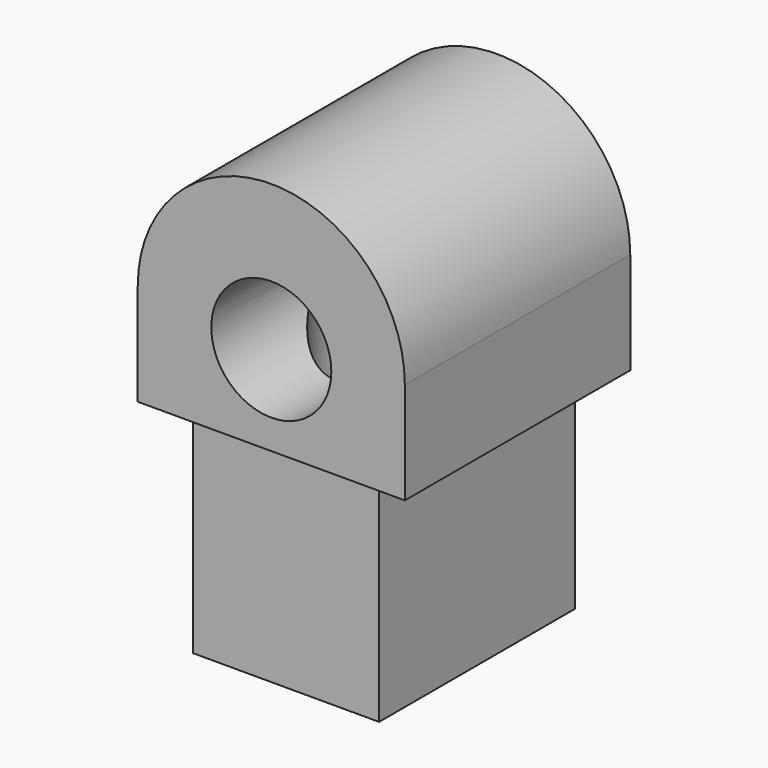
from build123d import *

# Parameters (mm, degrees)
F0_R     = 1.2446
F1_DEPTH = 2.921
F0_W     = 3.8608
F0_H     = 4.4704
F2_DEPTH = 2.54
F3_DEPTH = 2.921
F4_DEPTH = 2.54
F5_R     = 1.2446
F6_DEPTH = 6.35


with BuildPart() as f1:
    # F0 (on Front) → F1 (new body)
    with BuildSketch(Plane.XZ):
        with BuildLine():
            Line((0, 4.4704), (0.8382, 4.4704))
            Line((0.8382, 4.4704), (4.699, 4.4704))
            Line((4.699, 4.4704), (5.5372, 4.4704))
            Line((5.5372, 4.4704), (5.5372, 6.5786))
            ThreePointArc((5.5372, 6.5786), (2.7686, 9.3472), (0, 6.5786))
            Line((0, 6.5786), (0, 4.4704))
        make_face()
        with Locations((2.7686, 6.3246)):
            Circle(F0_R, mode=Mode.SUBTRACT)
    extrude(amount=F1_DEPTH)

    # F0 (on Front) → F2 (join)
    with BuildSketch(Plane.XZ):
        with Locations((2.7686, 2.2352)):
            Rectangle(F0_W, F0_H)
    extrude(amount=F2_DEPTH)

    # F0 (on Front) → F3 (join)
    with BuildSketch(Plane.XZ):
        with BuildLine():
            Line((0, 4.4704), (0.8382, 4.4704))
            Line((0.8382, 4.4704), (4.699, 4.4704))
            Line((4.699, 4.4704), (5.5372, 4.4704))
            Line((5.5372, 4.4704), (5.5372, 6.5786))
            ThreePointArc((5.5372, 6.5786), (2.7686, 9.3472), (0, 6.5786))
            Line((0, 6.5786), (0, 4.4704))
        make_face()
        with Locations((2.7686, 6.3246)):
            Circle(F0_R, mode=Mode.SUBTRACT)
    extrude(amount=-F3_DEPTH)

    # F0 (on Front) → F4 (join)
    with BuildSketch(Plane.XZ):
        with Locations((2.7686, 2.2352)):
            Rectangle(F0_W, F0_H)
    extrude(amount=-F4_DEPTH)

    # F5 (on face) → F6 (cut)
    with BuildSketch(Plane(origin=(0, 0, 0), x_dir=(1, 0, 0), z_dir=(0, 0, -1))):
        with Locations((2.7686, 0)):
            Circle(F5_R)
    extrude(amount=-F6_DEPTH, mode=Mode.SUBTRACT)


solid = f1.part
